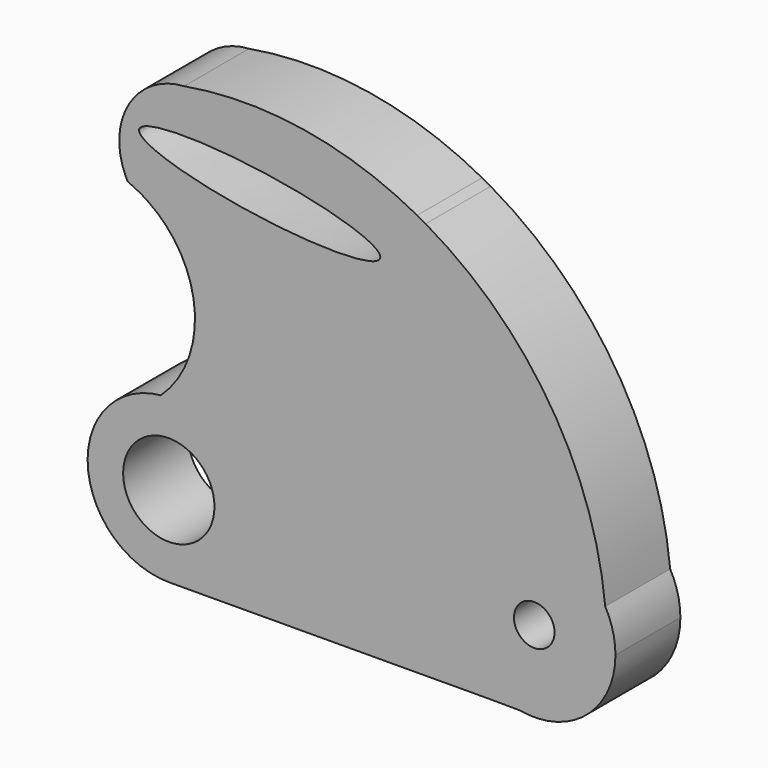
from build123d import *

# Parameters (mm, degrees)
F0_R     = 6.35
F1_DEPTH = 25.4


with BuildPart() as f1:
    # F0 (on Front) → F1 (new body)
    with BuildSketch(Plane.XZ):
        with BuildLine():
            ThreePointArc((-31.7676914396, -51.212217487), (-39.1540522035, -69.1194451191), (-57.0172033664, -76.6117716827))
            add(Edge.make_bspline(
                [(-57.0172033664, -76.6117716827), (-3.0248368593, -76.5525551068), (50.7867716559, -75.961187166), (52.5579889213, -76.1904208389)],
                knots=[0, 0, 0, 0, 0.9800219778, 0.9800219778, 0.9800219778, 0.9800219778], degree=3))
            ThreePointArc((52.5579889213, -76.1904208389), (36.5413170337, -36.3895092707), (79.3718467057, -38.8778959037))
            ThreePointArc((79.3718467057, -38.8778959037), (61.8688452583, 11.5065215408), (23.1930861664, 48.2370298349))
            ThreePointArc((23.1930861664, 48.2370298349), (28.9143020596, 28.2556514941), (10.3670218959, 18.8755560666))
            add(Edge.make_bspline(
                [(10.3670218959, 18.8755560666), (-2.1001551352, 19.5812241264), (-14.5673321663, 20.2868921862), (-25.8544281764, 21.1507299831)],
                knots=[0, 0, 0, 0, 0.2639850352, 0.2639850352, 0.2639850352, 0.2639850352], degree=3))
            Line((-25.8544281764, 21.1507299831), (-35.0068798015, 0))
            Line((-35.0068798015, 0), (-47.080401024, -27.9011348851))
            ThreePointArc((-47.080401024, -27.9011348851), (-35.9382640268, -37.2669167831), (-31.7676914396, -51.212217487))
        make_face()
        with BuildLine():
            ThreePointArc((-64.120165776, 26.4528238745), (-53.3638920267, 15.0541168659), (-49.0048196685, 0))
            Line((-49.0048196685, 0), (-35.0068798015, 0))
            Line((-35.0068798015, 0), (-25.8544281764, 21.1507299831))
            add(Edge.make_bspline(
                [(-25.8544281764, 21.1507299831), (-42.3669946541, 22.4144898585), (-56.3538914828, 24.0167726806), (-64.120165776, 26.4528238745)],
                knots=[0.2639850352, 0.2639850352, 0.2639850352, 0.2639850352, 0.6501845004, 0.6501845004, 0.6501845004, 0.6501845004], degree=3))
        make_face()
        with BuildLine():
            ThreePointArc((-47.080401024, -27.9011348851), (-53.2372420484, -26.11816306), (-59.6443856111, -25.9332541779))
            ThreePointArc((-59.6443856111, -25.9332541779), (-82.5336300744, -52.5271916986), (-57.0172033664, -76.6117716827))
            ThreePointArc((-57.0172033664, -76.6117716827), (-39.1540522035, -69.1194451191), (-31.7676914396, -51.212217487))
            ThreePointArc((-31.7676914396, -51.212217487), (-35.9382640268, -37.2669167831), (-47.080401024, -27.9011348851))
        make_face()
        with BuildLine():
            ThreePointArc((-42.8801914396, -51.212217487), (-69.1092443594, -59.0564491329), (-51.4935905808, -38.0997335234))
            ThreePointArc((-51.4935905808, -38.0997335234), (-45.2261385199, -43.367985841), (-42.8801914396, -51.212217487))
        make_face(mode=Mode.SUBTRACT)
        with BuildLine():
            ThreePointArc((79.3718467057, -38.8778959037), (36.5413170337, -36.3895092707), (52.5579889213, -76.1904208389))
            add(Edge.make_bspline(
                [(52.5579889213, -76.1904208389), (52.5743643256, -76.192540169), (52.5862915644, -76.1947296403), (52.5937296559, -76.1969903217)],
                knots=[0.9800219778, 0.9800219778, 0.9800219778, 0.9800219778, 0.989082558, 0.989082558, 0.989082558, 0.989082558], degree=3))
            ThreePointArc((52.5937296559, -76.1969903217), (52.6002979989, -76.1981918958), (52.6068666575, -76.1993917431))
            ThreePointArc((52.6068666575, -76.1993917431), (73.4359896071, -70.7186901238), (82.5676914396, -51.212217487))
            ThreePointArc((82.5676914396, -51.212217487), (81.7557530118, -44.841406854), (79.3718467057, -38.8778959037))
        make_face()
        with Locations((57.1676914396, -51.212217487)):
            Circle(F0_R, mode=Mode.SUBTRACT)
        with BuildLine():
            ThreePointArc((-69.9612258419, 29.4809139283), (-66.9658121311, 28.1113164087), (-64.120165776, 26.4528238745))
            add(Edge.make_bspline(
                [(-25.8544281764, 21.1507299831), (-42.3669946541, 22.4144898585), (-56.3538914828, 24.0167726806), (-64.120165776, 26.4528238745)],
                knots=[0.2639850352, 0.2639850352, 0.2639850352, 0.2639850352, 0.6501845004, 0.6501845004, 0.6501845004, 0.6501845004], degree=3))
            add(Edge.make_bspline(
                [(10.3670218959, 18.8755560666), (-2.1001551352, 19.5812241264), (-14.5673321663, 20.2868921862), (-25.8544281764, 21.1507299831)],
                knots=[0, 0, 0, 0, 0.2639850352, 0.2639850352, 0.2639850352, 0.2639850352], degree=3))
            ThreePointArc((10.3670218959, 18.8755560666), (28.9143020596, 28.2556514941), (23.1930861664, 48.2370298349))
            ThreePointArc((23.1930861664, 48.2370298349), (21.8669980712, 48.9865400772), (20.5309205796, 49.7180947064))
            ThreePointArc((20.5309205796, 49.7180947064), (-14.9278192889, 61.7691688623), (-52.3778807354, 61.5605567237))
            ThreePointArc((-52.3778807354, 61.5605567237), (-69.5762470574, 51.1246191915), (-70.7458588908, 31.0416760686))
            ThreePointArc((-70.7458588908, 31.0416760686), (-70.3693035741, 30.2533714564), (-69.9612258419, 29.4809139283))
        make_face()
        with BuildLine():
            add(Edge.make_bspline(
                [(-21.0337741334, 32.2909529727), (8.2781799141, 29.2868763615), (8.9863063511, 34.2758713728)],
                knots=[4.9416024048, 4.9416024048, 4.9416024048, 6.2831853072, 6.2831853072, 6.2831853072], degree=2, weights=[1, 0.7833299403, 1]))
            add(Edge.make_bspline(
                [(-16.0057902586, 43.9103019352), (-62.9271451968, 53.2390806132), (-66.3775621007, 45.2653879619), (-69.8279790046, 37.2916953107), (-21.0337741334, 32.2909529727)],
                knots=[1.2503260414, 1.2503260414, 1.2503260414, 3.0959642231, 3.0959642231, 4.9416024048, 4.9416024048, 4.9416024048], degree=2, weights=[1, 0.6035748791, 1, 0.6035748791, 1]))
            add(Edge.make_bspline(
                [(8.9863063511, 34.2758713728), (9.6303516354, 38.8133925598), (-16.0057902586, 43.9103019352)],
                knots=[0, 0, 0, 1.2503260414, 1.2503260414, 1.2503260414], degree=2, weights=[1, 0.8108677258, 1]))
        make_face(mode=Mode.SUBTRACT)
        with BuildLine():
            ThreePointArc((-49.0048196685, 0), (-51.4665175844, -14.1392059026), (-59.6443856111, -25.9332541779))
            ThreePointArc((-59.6443856111, -25.9332541779), (-53.2372420484, -26.11816306), (-47.080401024, -27.9011348851))
            Line((-47.080401024, -27.9011348851), (-35.0068798015, 0))
            Line((-35.0068798015, 0), (-49.0048196685, 0))
        make_face()
    extrude(amount=F1_DEPTH)


solid = f1.part
